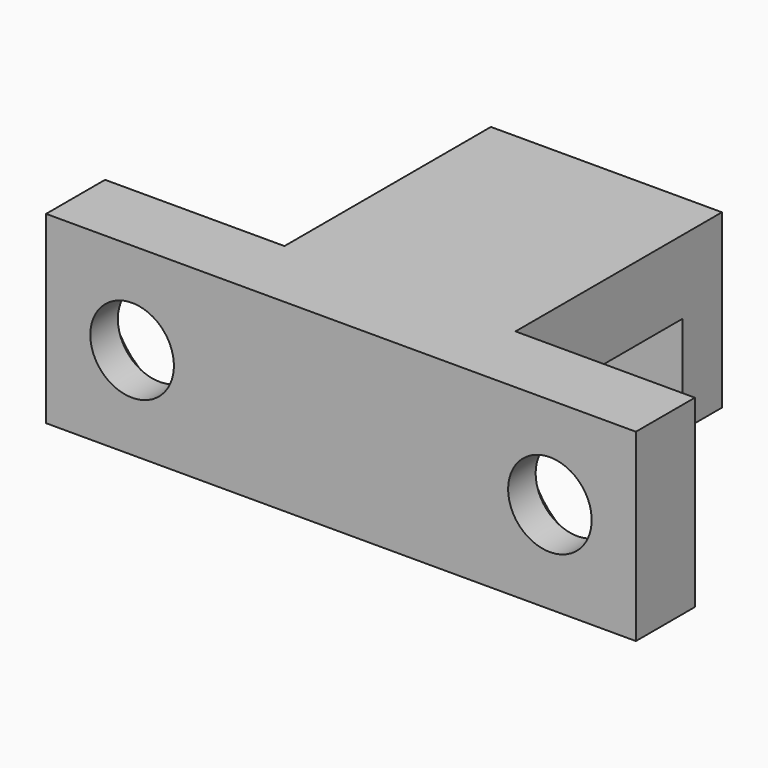
from build123d import *

# Parameters (mm, degrees)
F0_W           = 24
F0_H           = 7.5
F1_DEPTH       = 3
F2_D           = 3.4
F2_CSINK_D     = 6.6
F2_CSINK_ANGLE = 90
F3_W           = 9.4
F3_H           = 3
F4_DEPTH       = 10.5
F5_W           = 9.4
F5_H           = 2
F6_DEPTH       = 4


with BuildPart() as f1:
    # F0 (on Front) → F1 (new body)
    with BuildSketch(Plane.XZ):
        Rectangle(F0_W, F0_H)
    extrude(amount=F1_DEPTH)

    # F2 (through all)
    with Locations(Plane(origin=(0, 0, 0), x_dir=(1, 0, 0), z_dir=(0, 1, 0))):
        with Locations((-8.5, 0), (8.5, 0)):
            CounterSinkHole(F2_D / 2, F2_CSINK_D / 2, counter_sink_angle=F2_CSINK_ANGLE)

    # F3 (on face) → F4 (join)
    with BuildSketch(Plane.XZ):
        with Locations((0, 2.25)):
            Rectangle(F3_W, F3_H)
    extrude(amount=-F4_DEPTH)

    # F5 (on face) → F6 (join)
    with BuildSketch(Plane(origin=(0, 0, 0.75), x_dir=(1, 0, 0), z_dir=(0, 0, -1))):
        with Locations((0, -9.5)):
            Rectangle(F5_W, F5_H)
    extrude(amount=F6_DEPTH)


solid = f1.part
